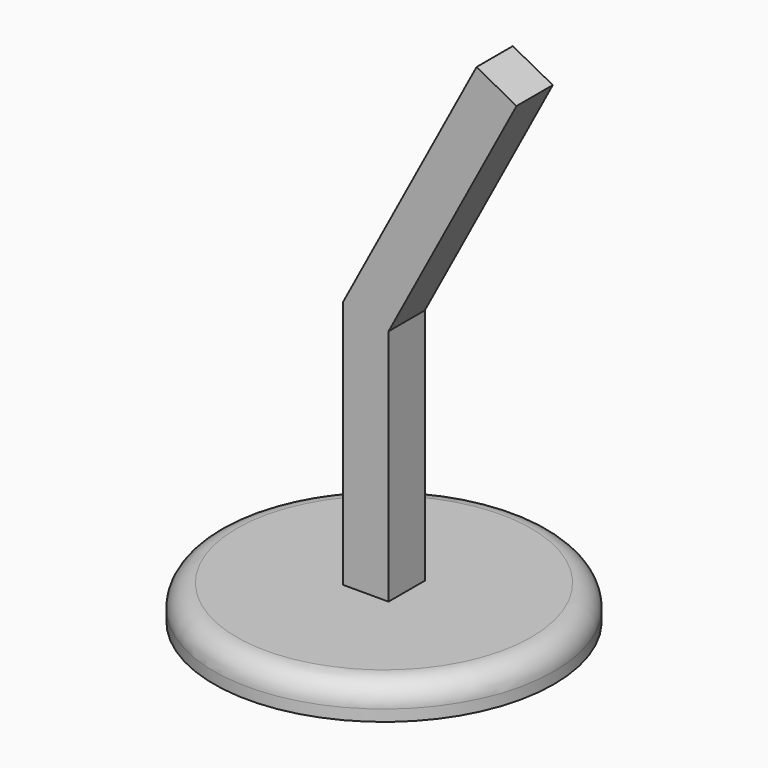
from build123d import *

# Parameters (mm, degrees)
SKETCH008_R       = 15
PAD004_DEPTH      = 3
PAD005_DEPTH      = 2
PAD005_DEPTH_BACK = 2
FILLET_R          = 2


with BuildPart() as part:
    # Sketch008 → Pad004 (new body)
    with BuildSketch(Plane.XY):
        Circle(SKETCH008_R)
    extrude(amount=PAD004_DEPTH)

    # Sketch009 → Pad005 (join, two sides)
    with BuildSketch(Plane.XZ) as pad005_sk:
        Polygon((-2, 0), (2, 0), (2, 24), (13.294118, 45.176471), (9.764706, 47.058824), (-2, 25), align=None)
    extrude(amount=PAD005_DEPTH)
    extrude(pad005_sk.sketch, amount=-PAD005_DEPTH_BACK)

    # Fillet
    fillet_edges = [part.edges().sort_by_distance(p)[0] for p in [
        (-15, 0, 3),
    ]]
    fillet(fillet_edges, radius=FILLET_R)


solid = part.part
